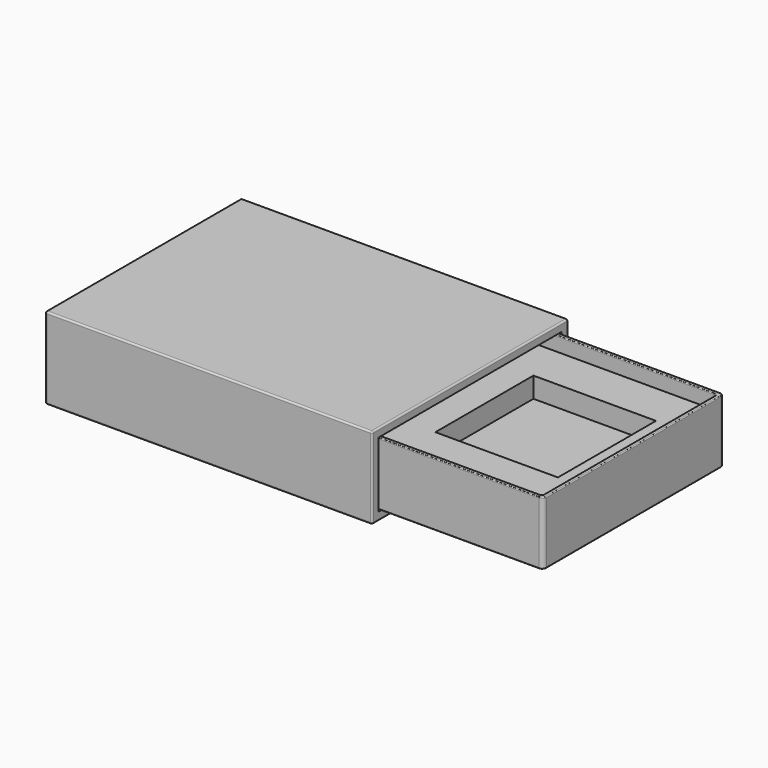
from build123d import *

# Parameters (mm, degrees)
F0_W          = 101.6
F0_H          = 25.4
F1_DEPTH      = 38.1
F2_T          = -2.54
F3_R          = 0.508
F4_W          = 70.358
F4_H          = 19.558
F5_DEPTH      = 50.8
F6_T          = -1.27
F7_R          = 0.762
F8_W          = 97.79
F8_H          = 64.77
F9_DEPTH      = 6.35
F9_DEPTH_BACK = 6.35
F10_W         = 38.1
F10_H         = 38.1
F11_DEPTH     = 6.35
F12_R         = 1.27
F13_R         = 0.254


with BuildPart() as f1:
    # F0 (on Front) → F1 (new body, symmetric)
    with BuildSketch(Plane.XZ):
        Rectangle(F0_W, F0_H)
    extrude(amount=F1_DEPTH, both=True)

    # F2
    f2_openings = [f1.faces().sort_by_distance(p)[0] for p in [
        (50.8, 0, 0),
        (-50.8, 0, 0),
    ]]
    offset(amount=F2_T, openings=f2_openings)

    # F3
    f3_edges = [f1.edges().sort_by_distance(p)[0] for p in [
        (50.8, 0, 12.7),
        (0, 38.1, 12.7),
        (-50.8, 0, 12.7),
        (0, -38.1, 12.7),
        (0, 38.1, -12.7),
        (50.8, 0, -12.7),
        (0, -38.1, -12.7),
        (-50.8, 0, -12.7),
        (50.8, -38.1, 0),
        (50.8, 38.1, 0),
        (-50.8, 38.1, 0),
        (-50.8, -38.1, 0),
    ]]
    fillet(f3_edges, radius=F3_R)


with BuildPart() as f5:
    # F4 (on Right) → F5 (new body, symmetric)
    with BuildSketch(Plane.YZ):
        Rectangle(F4_W, F4_H)
    extrude(amount=F5_DEPTH, both=True)

    # F6
    f6_openings = [f5.faces().sort_by_distance(p)[0] for p in [
        (0, 0, 9.779),
    ]]
    offset(amount=F6_T, openings=f6_openings)

    # F7
    f7_edges = [f5.edges().sort_by_distance(p)[0] for p in [
        (-49.53, 0, -8.509),
        (0, 33.909, -8.509),
        (49.53, 0, -8.509),
        (0, -33.909, -8.509),
        (-49.53, 33.909, 0.635),
        (-49.53, -33.909, 0.635),
        (49.53, -33.909, 0.635),
        (49.53, 33.909, 0.635),
    ]]
    fillet(f7_edges, radius=F7_R)

    # F12
    f12_edges = [f5.edges().sort_by_distance(p)[0] for p in [
        (50.8, -35.179, 0),
        (50.8, 35.179, 0),
    ]]
    fillet(f12_edges, radius=F12_R)

    # F13
    f13_edges = [f5.edges().sort_by_distance(p)[0] for p in [
        (-0.635, -35.179, 9.779),
        (50.428026, -34.807026, 9.779),
        (-50.8, 0, 9.779),
        (50.8, 0, 9.779),
        (-0.635, 35.179, 9.779),
        (50.428026, 34.807026, 9.779),
        (-49.53, 0, 9.779),
        (-49.306815, 33.685815, 9.779),
        (-49.306815, -33.685815, 9.779),
        (0, 33.909, 9.779),
        (0, -33.909, 9.779),
        (49.306815, 33.685815, 9.779),
        (49.306815, -33.685815, 9.779),
        (49.53, 0, 9.779),
        (-0.635, -35.179, -9.779),
        (50.428026, -34.807026, -9.779),
        (-50.8, 0, -9.779),
        (50.8, 0, -9.779),
        (-0.635, 35.179, -9.779),
        (50.428026, 34.807026, -9.779),
    ]]
    fillet(f13_edges, radius=F13_R)


with BuildPart() as f9:
    # F8 (on Top) → F9 (new body, two sides)
    with BuildSketch(Plane.XY) as f9_sk:
        Rectangle(F8_W, F8_H)
    extrude(amount=F9_DEPTH)
    extrude(f9_sk.sketch, amount=-F9_DEPTH_BACK)

    # F10 (on face) → F11 (cut)
    with BuildSketch(Plane.XY.offset(6.35)):
        with Locations((23.495, 0)):
            Rectangle(F10_W, F10_H)
    extrude(amount=-F11_DEPTH, mode=Mode.SUBTRACT)


with BuildPart() as f5_1:
    # F14: moved
    add(f5.part.moved(Location((50.8, 0, 0))))


with BuildPart() as f9_1:
    # F14: moved
    add(f9.part.moved(Location((50.8, 0, 0))))


solid = Compound([f1.part, f5_1.part, f9_1.part])
